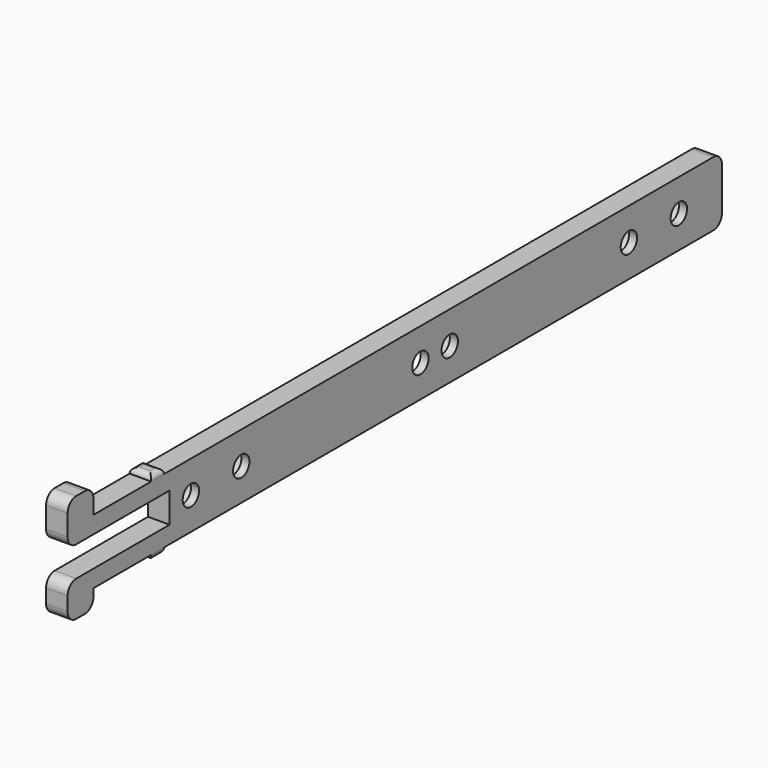
from build123d import *

# Parameters (mm, degrees)
SKETCH062_R             = 1.9
PAD020_DEPTH            = 4
SKETCH063_R             = 4
POCKET042_DEPTH         = 2.5
FILLET015_R             = 2
FILLET016_R             = 1
FILLET017_R             = 2
BODY016_PLACEMENT_ANGLE = 270


with BuildPart() as part:
    # Sketch062 → Pad020 (new body)
    with BuildSketch(Plane.XZ):
        Polygon((4, 0), (-125.535636, 0), (-125.535636, -1.01), (-128.535636, -1.01), (-128.535636, 0), (-141.91974, 0), (-141.91974, -3.395505), (-147.91974, -3.395505), (-147.91974, 3.2), (-124.257385, 3.2), (-124.257385, 8.8), (-147.91974, 8.8), (-147.91974, 16.699631), (-141.91974, 16.699631), (-141.91974, 12), (-128.535636, 12), (-128.535636, 13.01), (-125.535636, 13.01), (-125.535636, 12), (4, 12), align=None)
        with Locations((-66, 6)):
            Circle(SKETCH062_R, mode=Mode.SUBTRACT)
        with Locations((-6, 6)):
            Circle(SKETCH062_R, mode=Mode.SUBTRACT)
        with Locations((-107.6, 6)):
            Circle(SKETCH062_R, mode=Mode.SUBTRACT)
        with Locations((-17.6, 6)):
            Circle(SKETCH062_R, mode=Mode.SUBTRACT)
        with Locations((-59.2, 6)):
            Circle(SKETCH062_R, mode=Mode.SUBTRACT)
        with Locations((-119.3, 6)):
            Circle(SKETCH062_R, mode=Mode.SUBTRACT)
    extrude(amount=PAD020_DEPTH)

    # Sketch063 (on Face27 of Pad020) → Pocket042 (cut)
    with BuildSketch(Plane(origin=(0, 0, 0), x_dir=(1, 0, 0), z_dir=(0, 1, 0))):
        with Locations((-107.6, -6)):
            Circle(SKETCH063_R)
        with Locations((-6, -6)):
            Circle(SKETCH063_R)
        with Locations((-17.6, -6)):
            Circle(SKETCH063_R)
        with Locations((-119.3, -6)):
            Circle(SKETCH063_R)
        with BuildLine():
            ThreePointArc((-66.1179939879, -2), (-70.1179939879, -6), (-66.1179939879, -10))
            Line((-66.1179939879, -10), (-59.2, -10))
            ThreePointArc((-59.2, -10), (-55.2, -6), (-59.2, -2))
            Line((-66.1179939879, -2), (-59.2, -2))
        make_face()
    extrude(amount=-POCKET042_DEPTH, mode=Mode.SUBTRACT)

    # Fillet015
    fillet015_edges = [part.edges().sort_by_distance(p)[0] for p in [
        (4, -2, 12),
        (4, -2, 0),
    ]]
    fillet(fillet015_edges, radius=FILLET015_R)

    # Fillet016
    fillet016_edges = [part.edges().sort_by_distance(p)[0] for p in [
        (-125.535636, -2, -1.01),
        (-128.535636, -2, -1.01),
        (-127.035636, 0, -1.01),
        (-127.035636, -4, -1.01),
        (-128.535636, -2, 13.01),
        (-125.535636, -2, 13.01),
        (-127.035636, 0, 13.01),
        (-127.035636, -4, 13.01),
    ]]
    fillet(fillet016_edges, radius=FILLET016_R)

    # Fillet017
    fillet017_edges = [part.edges().sort_by_distance(p)[0] for p in [
        (-141.91974, -2, 16.699631),
        (-147.91974, -2, 16.699631),
        (-147.91974, -2, 8.8),
        (-147.91974, -2, 3.2),
        (-147.91974, -2, -3.395505),
        (-141.91974, -2, -3.395505),
    ]]
    fillet(fillet017_edges, radius=FILLET017_R)


with BuildPart() as part_1:
    # Body016 placement: moved
    add(part.part.moved(Location((8.5, 121, 40.5))).rotate(Axis((8.5, 121, 40.5), (0, 0, -1)), BODY016_PLACEMENT_ANGLE))


solid = part_1.part
